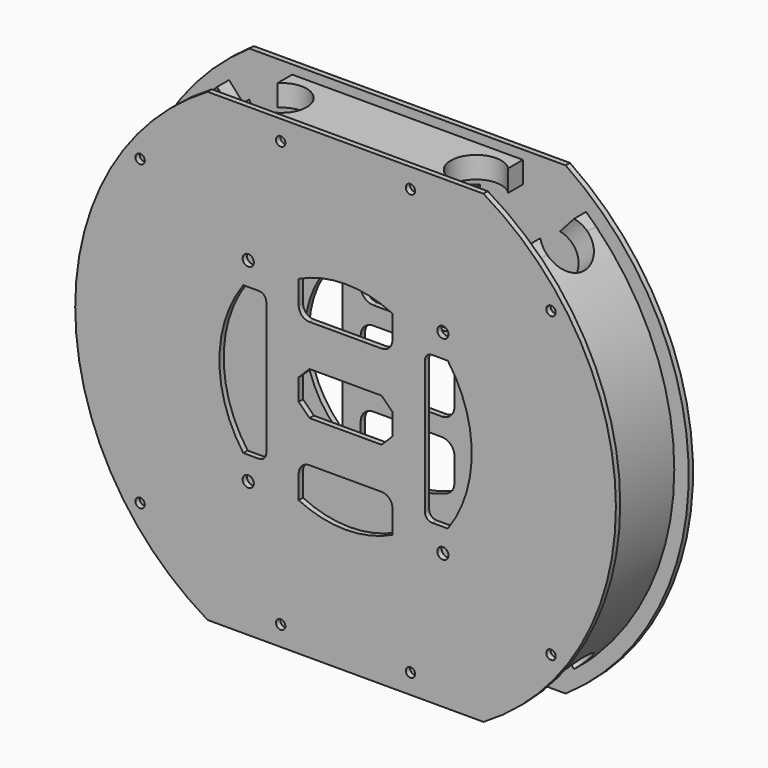
from build123d import *

# Parameters (mm, degrees)
F1_START = -10
F0_R     = 1.55
F1_DEPTH = 1.5
F2_W     = 5
F2_H     = 6
F2_W_2   = 7
F2_W_3   = 40
F3_DEPTH = 10
F8_R     = 1.3
F8_R_2   = 1.55
F8_W     = 64
F8_H     = 6
F9_DEPTH = 1.5


with BuildPart() as f1:
    # F0 (on Front) → F1 (new body)
    with BuildSketch(Plane.XZ.offset(F1_START)):
        with BuildLine():
            Line((43.8605745516, 64.5), (-43.8605745516, 64.5))
            ThreePointArc((-43.8605745516, 64.5), (-78, 0), (-43.8605745516, -64.5))
            Line((-43.8605745516, -64.5), (43.8605745516, -64.5))
            ThreePointArc((43.8605745516, -64.5), (78, 0), (43.8605745516, 64.5))
        make_face()
        with Locations((-27, -27)):
            Circle(F0_R, mode=Mode.SUBTRACT)
        with BuildLine():
            Line((13, -16.5), (13, -23.1246621597))
            ThreePointArc((13, -23.1246621597), (12.407318352, -25.0733796867), (10.83, -26.3621148621))
            ThreePointArc((10.83, -26.3621148621), (0, -28.5), (-10.83, -26.3621148621))
            ThreePointArc((-10.83, -26.3621148621), (-12.407318352, -25.0733796867), (-13, -23.1246621597))
            Line((-13, -23.1246621597), (-13, -16.5))
            ThreePointArc((-13, -16.5), (-11.9748737342, -14.0251262658), (-9.5, -13))
            Line((-9.5, -13), (9.5, -13))
            ThreePointArc((9.5, -13), (11.9748737342, -14.0251262658), (13, -16.5))
        make_face(mode=Mode.SUBTRACT)
        with Locations((27, -27)):
            Circle(F0_R, mode=Mode.SUBTRACT)
        with BuildLine():
            ThreePointArc((-19.6909090909, -20.6038370012), (-28.5, 0), (-19.6909090909, 20.6038370012))
            ThreePointArc((-19.6909090909, 20.6038370012), (-18.6068773034, 20.8003813745), (-18, 19.8808953521))
            Line((-18, 19.8808953521), (-18, -19.8808953521))
            ThreePointArc((-18, -19.8808953521), (-18.6068773034, -20.8003813745), (-19.6909090909, -20.6038370012))
        make_face(mode=Mode.SUBTRACT)
        with Locations((-27, 27)):
            Circle(F0_R, mode=Mode.SUBTRACT)
        with BuildLine():
            ThreePointArc((-13, 4.5), (-11.9748737342, 6.9748737342), (-9.5, 8))
            Line((-9.5, 8), (9.5, 8))
            ThreePointArc((9.5, 8), (11.9748737342, 6.9748737342), (13, 4.5))
            Line((13, 4.5), (13, -4.5))
            ThreePointArc((13, -4.5), (11.9748737342, -6.9748737342), (9.5, -8))
            Line((9.5, -8), (-9.5, -8))
            ThreePointArc((-9.5, -8), (-11.9748737342, -6.9748737342), (-13, -4.5))
            Line((-13, -4.5), (-13, 4.5))
        make_face(mode=Mode.SUBTRACT)
        with BuildLine():
            Line((18, -19.8808953521), (18, 19.8808953521))
            ThreePointArc((18, 19.8808953521), (18.6068773034, 20.8003813745), (19.6909090909, 20.6038370012))
            ThreePointArc((19.6909090909, 20.6038370012), (28.5, 0), (19.6909090909, -20.6038370012))
            ThreePointArc((19.6909090909, -20.6038370012), (18.6068773034, -20.8003813745), (18, -19.8808953521))
        make_face(mode=Mode.SUBTRACT)
        with BuildLine():
            Line((9.5, 13), (-9.5, 13))
            ThreePointArc((-9.5, 13), (-11.9748737342, 14.0251262658), (-13, 16.5))
            Line((-13, 16.5), (-13, 23.1246621597))
            ThreePointArc((-13, 23.1246621597), (-12.407318352, 25.0733796867), (-10.83, 26.3621148621))
            ThreePointArc((-10.83, 26.3621148621), (0, 28.5), (10.83, 26.3621148621))
            ThreePointArc((10.83, 26.3621148621), (12.407318352, 25.0733796867), (13, 23.1246621597))
            Line((13, 23.1246621597), (13, 16.5))
            ThreePointArc((13, 16.5), (11.9748737342, 14.0251262658), (9.5, 13))
        make_face(mode=Mode.SUBTRACT)
        with Locations((27, 27)):
            Circle(F0_R, mode=Mode.SUBTRACT)
    extrude(amount=-F1_DEPTH)

    # F2 (on Front) → F3 (join, symmetric)
    with BuildSketch(Plane.XZ):
        with BuildLine():
            Line((-45.5008812324, 50.5338481325), (-49.5156648706, 54.9927170853))
            ThreePointArc((-49.5156648706, 54.9927170853), (-50.9382386013, 53.6777034549), (-52.3259018078, 52.3259018078))
            Line((-52.3259018078, 52.3259018078), (-48.0832611207, 48.0832611207))
            ThreePointArc((-48.0832611207, 48.0832611207), (-46.8081111472, 49.3254572288), (-45.5008812324, 50.5338481325))
        make_face()
        with BuildLine():
            Line((-48.0832611207, 48.0832611207), (-52.3259018078, 52.3259018078))
            ThreePointArc((-52.3259018078, 52.3259018078), (-74, 0), (-52.3259018078, -52.3259018078))
            Line((-52.3259018078, -52.3259018078), (-48.0832611207, -48.0832611207))
            ThreePointArc((-48.0832611207, -48.0832611207), (-68, 0), (-48.0832611207, 48.0832611207))
        make_face()
        with BuildLine():
            Line((-48.0832611207, -48.0832611207), (-52.3259018078, -52.3259018078))
            ThreePointArc((-52.3259018078, -52.3259018078), (-50.9382386013, -53.6777034549), (-49.5156648706, -54.9927170853))
            Line((-49.5156648706, -54.9927170853), (-45.5008812324, -50.5338481325))
            ThreePointArc((-45.5008812324, -50.5338481325), (-46.8081111472, -49.3254572288), (-48.0832611207, -48.0832611207))
        make_face()
        with BuildLine():
            ThreePointArc((48.0832611207, -48.0832611207), (46.8081111472, -49.3254572288), (45.5008812324, -50.5338481325))
            Line((45.5008812324, -50.5338481325), (49.5156648706, -54.9927170853))
            ThreePointArc((49.5156648706, -54.9927170853), (50.9382386013, -53.6777034549), (52.3259018078, -52.3259018078))
            Line((52.3259018078, -52.3259018078), (48.0832611207, -48.0832611207))
        make_face()
        with Locations((-29.5, -59)):
            Rectangle(F2_W, F2_H)
        with Locations((-23.5, -59)):
            Rectangle(F2_W_2, F2_H)
        with Locations((0, -59)):
            Rectangle(F2_W_3, F2_H)
        with Locations((23.5, -59)):
            Rectangle(F2_W_2, F2_H)
        with Locations((29.5, -59)):
            Rectangle(F2_W, F2_H)
        with BuildLine():
            ThreePointArc((45.5008812324, 50.5338481325), (46.8081111472, 49.3254572288), (48.0832611207, 48.0832611207))
            Line((48.0832611207, 48.0832611207), (52.3259018078, 52.3259018078))
            ThreePointArc((52.3259018078, 52.3259018078), (50.9382386013, 53.6777034549), (49.5156648706, 54.9927170853))
            Line((49.5156648706, 54.9927170853), (45.5008812324, 50.5338481325))
        make_face()
        with BuildLine():
            ThreePointArc((48.0832611207, 48.0832611207), (68, 0), (48.0832611207, -48.0832611207))
            Line((48.0832611207, -48.0832611207), (52.3259018078, -52.3259018078))
            ThreePointArc((52.3259018078, -52.3259018078), (74, 0), (52.3259018078, 52.3259018078))
            Line((52.3259018078, 52.3259018078), (48.0832611207, 48.0832611207))
        make_face()
        with Locations((-23.5, 59)):
            Rectangle(F2_W_2, F2_H)
        with Locations((0, 59)):
            Rectangle(F2_W_3, F2_H)
        with Locations((23.5, 59)):
            Rectangle(F2_W_2, F2_H)
        with Locations((29.5, 59)):
            Rectangle(F2_W, F2_H)
        with Locations((-29.5, 59)):
            Rectangle(F2_W, F2_H)
    extrude(amount=F3_DEPTH, both=True)

    # F2 (on Front) → F4 (revolve, cut)
    with BuildSketch(Plane.XZ):
        with BuildLine():
            Line((47.3761543395, 47.3761543395), (48.0832611207, 48.0832611207))
            ThreePointArc((48.0832611207, 48.0832611207), (46.8081111472, 49.3254572288), (45.5008812324, 50.5338481325))
            Line((45.5008812324, 50.5338481325), (49.5156648706, 54.9927170853))
            ThreePointArc((49.5156648706, 54.9927170853), (50.9382386013, 53.6777034549), (52.3259018078, 52.3259018078))
            Line((52.3259018078, 52.3259018078), (47.3761543395, 57.2756492761))
            Line((47.3761543395, 57.2756492761), (42.4264068712, 52.3259018078))
            Line((42.4264068712, 52.3259018078), (47.3761543395, 47.3761543395))
        make_face()
        with BuildLine():
            ThreePointArc((45.5008812324, 50.5338481325), (46.8081111472, 49.3254572288), (48.0832611207, 48.0832611207))
            Line((48.0832611207, 48.0832611207), (52.3259018078, 52.3259018078))
            ThreePointArc((52.3259018078, 52.3259018078), (50.9382386013, 53.6777034549), (49.5156648706, 54.9927170853))
            Line((49.5156648706, 54.9927170853), (45.5008812324, 50.5338481325))
        make_face()
        with BuildLine():
            ThreePointArc((-49.5156648706, -54.9927170853), (-50.9382386013, -53.6777034549), (-52.3259018078, -52.3259018078))
            Line((-52.3259018078, -52.3259018078), (-47.3761543395, -57.2756492761))
            Line((-47.3761543395, -57.2756492761), (-42.4264068712, -52.3259018078))
            Line((-42.4264068712, -52.3259018078), (-47.3761543395, -47.3761543395))
            Line((-47.3761543395, -47.3761543395), (-48.0832611207, -48.0832611207))
            ThreePointArc((-48.0832611207, -48.0832611207), (-46.8081111472, -49.3254572288), (-45.5008812324, -50.5338481325))
            Line((-45.5008812324, -50.5338481325), (-49.5156648706, -54.9927170853))
        make_face()
        with BuildLine():
            Line((-48.0832611207, -48.0832611207), (-52.3259018078, -52.3259018078))
            ThreePointArc((-52.3259018078, -52.3259018078), (-50.9382386013, -53.6777034549), (-49.5156648706, -54.9927170853))
            Line((-49.5156648706, -54.9927170853), (-45.5008812324, -50.5338481325))
            ThreePointArc((-45.5008812324, -50.5338481325), (-46.8081111472, -49.3254572288), (-48.0832611207, -48.0832611207))
        make_face()
    revolve(axis=Axis((23.6880771697, 0, 23.6880771697), (0.7071067812, 0, 0.7071067812)), mode=Mode.SUBTRACT)

    # F2 (on Front) → F5 (revolve, cut)
    with BuildSketch(Plane.XZ):
        with BuildLine():
            ThreePointArc((-52.3259018078, 52.3259018078), (-50.9382386013, 53.6777034549), (-49.5156648706, 54.9927170853))
            Line((-49.5156648706, 54.9927170853), (-45.5008812324, 50.5338481325))
            ThreePointArc((-45.5008812324, 50.5338481325), (-46.8081111472, 49.3254572288), (-48.0832611207, 48.0832611207))
            Line((-48.0832611207, 48.0832611207), (-47.3761543395, 47.3761543395))
            Line((-47.3761543395, 47.3761543395), (-42.4264068712, 52.3259018078))
            Line((-42.4264068712, 52.3259018078), (-47.3761543395, 57.2756492761))
            Line((-47.3761543395, 57.2756492761), (-52.3259018078, 52.3259018078))
        make_face()
        with BuildLine():
            Line((-45.5008812324, 50.5338481325), (-49.5156648706, 54.9927170853))
            ThreePointArc((-49.5156648706, 54.9927170853), (-50.9382386013, 53.6777034549), (-52.3259018078, 52.3259018078))
            Line((-52.3259018078, 52.3259018078), (-48.0832611207, 48.0832611207))
            ThreePointArc((-48.0832611207, 48.0832611207), (-46.8081111472, 49.3254572288), (-45.5008812324, 50.5338481325))
        make_face()
        with BuildLine():
            Line((49.5156648706, -54.9927170853), (45.5008812324, -50.5338481325))
            ThreePointArc((45.5008812324, -50.5338481325), (46.8081111472, -49.3254572288), (48.0832611207, -48.0832611207))
            Line((48.0832611207, -48.0832611207), (47.3761543395, -47.3761543395))
            Line((47.3761543395, -47.3761543395), (42.4264068712, -52.3259018078))
            Line((42.4264068712, -52.3259018078), (47.3761543395, -57.2756492761))
            Line((47.3761543395, -57.2756492761), (52.3259018078, -52.3259018078))
            ThreePointArc((52.3259018078, -52.3259018078), (50.9382386013, -53.6777034549), (49.5156648706, -54.9927170853))
        make_face()
        with BuildLine():
            ThreePointArc((48.0832611207, -48.0832611207), (46.8081111472, -49.3254572288), (45.5008812324, -50.5338481325))
            Line((45.5008812324, -50.5338481325), (49.5156648706, -54.9927170853))
            ThreePointArc((49.5156648706, -54.9927170853), (50.9382386013, -53.6777034549), (52.3259018078, -52.3259018078))
            Line((52.3259018078, -52.3259018078), (48.0832611207, -48.0832611207))
        make_face()
    revolve(axis=Axis((49.8510280737, 0, -49.8510280737), (-0.7071067812, 0, 0.7071067812)), mode=Mode.SUBTRACT)

    # F2 (on Front) → F6 (revolve, cut)
    with BuildSketch(Plane.XZ):
        with Locations((-23.5, 59)):
            Rectangle(F2_W_2, F2_H)
        with Locations((-23.5, -59)):
            Rectangle(F2_W_2, F2_H)
    revolve(axis=Axis((-27, 0, 59), (0, 0, -1)), mode=Mode.SUBTRACT)

    # F2 (on Front) → F7 (revolve, cut)
    with BuildSketch(Plane.XZ):
        with Locations((23.5, 59)):
            Rectangle(F2_W_2, F2_H)
        with Locations((23.5, -59)):
            Rectangle(F2_W_2, F2_H)
    revolve(axis=Axis((27, 0, 59), (0, 0, -1)), mode=Mode.SUBTRACT)

    # F8 (on face) → F9 (join)
    with BuildSketch(Plane.XZ.offset(10)):
        with BuildLine():
            Line((38.2720524665, 64.5), (-38.2720524665, 64.5))
            ThreePointArc((-38.2720524665, 64.5), (-75, 0), (-38.2720524665, -64.5))
            Line((-38.2720524665, -64.5), (38.2720524665, -64.5))
            ThreePointArc((38.2720524665, -64.5), (75, 0), (38.2720524665, 64.5))
        make_face()
        with Locations((-57, -42)):
            Circle(F8_R, mode=Mode.SUBTRACT)
        with Locations((-18, -59)):
            Circle(F8_R, mode=Mode.SUBTRACT)
        with Locations((-27, -27)):
            Circle(F8_R_2, mode=Mode.SUBTRACT)
        with BuildLine():
            ThreePointArc((-28.368115905, -20.5), (-35, 0), (-28.368115905, 20.5))
            Line((-28.368115905, 20.5), (-24, 20.5))
            ThreePointArc((-24, 20.5), (-22.5857864376, 19.9142135624), (-22, 18.5))
            Line((-22, 18.5), (-22, -18.5))
            ThreePointArc((-22, -18.5), (-22.5857864376, -19.9142135624), (-24, -20.5))
            Line((-24, -20.5), (-28.368115905, -20.5))
        make_face(mode=Mode.SUBTRACT)
        with Locations((18, -59)):
            Circle(F8_R, mode=Mode.SUBTRACT)
        with Locations((57, -42)):
            Circle(F8_R, mode=Mode.SUBTRACT)
        with BuildLine():
            ThreePointArc((13, -27.0370116692), (0, -30), (-13, -27.0370116692))
            Line((-13, -27.0370116692), (-13, -20.5))
            ThreePointArc((-13, -20.5), (-12.1213203436, -18.3786796564), (-10, -17.5))
            Line((-10, -17.5), (10, -17.5))
            ThreePointArc((10, -17.5), (12.1213203436, -18.3786796564), (13, -20.5))
            Line((13, -20.5), (13, -27.0370116692))
        make_face(mode=Mode.SUBTRACT)
        with Locations((27, -27)):
            Circle(F8_R_2, mode=Mode.SUBTRACT)
        Polygon((-13, 3), (-10, 6), (10, 6), (13, 3), (13, -3), (10, -6), (-10, -6), (-13, -3), align=None, mode=Mode.SUBTRACT)
        with BuildLine():
            Line((28.368115905, -20.5), (24, -20.5))
            ThreePointArc((24, -20.5), (22.5857864376, -19.9142135624), (22, -18.5))
            Line((22, -18.5), (22, 18.5))
            ThreePointArc((22, 18.5), (22.5857864376, 19.9142135624), (24, 20.5))
            Line((24, 20.5), (28.368115905, 20.5))
            ThreePointArc((28.368115905, 20.5), (35, 0), (28.368115905, -20.5))
        make_face(mode=Mode.SUBTRACT)
        with Locations((-27, 27)):
            Circle(F8_R_2, mode=Mode.SUBTRACT)
        with Locations((-57, 42)):
            Circle(F8_R, mode=Mode.SUBTRACT)
        with BuildLine():
            Line((10, 17.5), (-10, 17.5))
            ThreePointArc((-10, 17.5), (-12.1213203436, 18.3786796564), (-13, 20.5))
            Line((-13, 20.5), (-13, 27.0370116692))
            ThreePointArc((-13, 27.0370116692), (0, 30), (13, 27.0370116692))
            Line((13, 27.0370116692), (13, 20.5))
            ThreePointArc((13, 20.5), (12.1213203436, 18.3786796564), (10, 17.5))
        make_face(mode=Mode.SUBTRACT)
        with Locations((27, 27)):
            Circle(F8_R_2, mode=Mode.SUBTRACT)
        with Locations((0, 59)):
            Rectangle(F8_W, F8_H, mode=Mode.SUBTRACT)
        with Locations((57, 42)):
            Circle(F8_R, mode=Mode.SUBTRACT)
        with Locations((0, 59)):
            Rectangle(F8_W, F8_H)
        with Locations((-18, 59)):
            Circle(F8_R, mode=Mode.SUBTRACT)
        with Locations((18, 59)):
            Circle(F8_R, mode=Mode.SUBTRACT)
    extrude(amount=F9_DEPTH)


solid = f1.part
